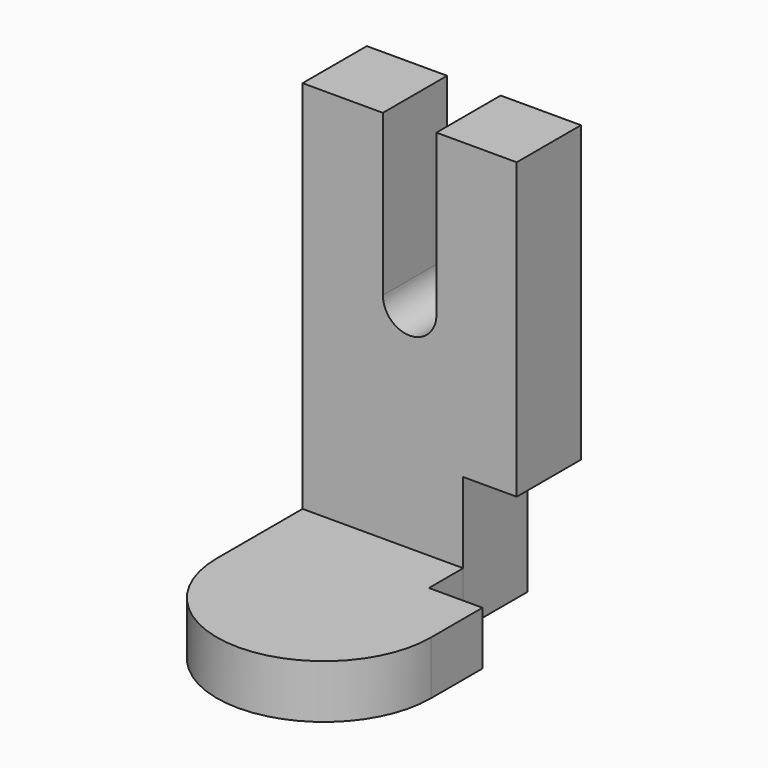
from build123d import *

# Parameters (mm, degrees)
F0_W     = 101.6
F0_H     = 203.2
F1_DEPTH = 38.1
F3_DEPTH = 25.4
F5_DEPTH = 1270
F6_W     = 20.32
F6_H     = 25.4
F7_DEPTH = 25.4


with BuildPart() as f1:
    # F0 (on Front) → F1 (new body)
    with BuildSketch(Plane.XZ):
        Rectangle(F0_W, F0_H)
    extrude(amount=-F1_DEPTH)

    # F4 (on face) → F5 (cut)
    with BuildSketch(Plane.XZ):
        with BuildLine():
            Line((12.7, 101.6), (-12.7, 101.6))
            Line((-12.7, 101.6), (-12.7, 25.4))
            ThreePointArc((-12.7, 25.4), (0, 12.7), (12.7, 25.4))
            Line((12.7, 25.4), (12.7, 101.6))
        make_face()
    extrude(amount=-F5_DEPTH, mode=Mode.SUBTRACT)


with BuildPart() as f3:
    # F2 (on face) → F3 (new body)
    with BuildSketch(Plane(origin=(0, 0, -101.6), x_dir=(1, 0, 0), z_dir=(0, 0, -1))):
        with BuildLine():
            Line((-50.8, 50.8), (-50.8, 0))
            Line((-50.8, 0), (50.8, 0))
            Line((50.8, 0), (50.8, 50.8))
            ThreePointArc((50.8, 50.8), (0, 101.6), (-50.8, 50.8))
        make_face()
    extrude(amount=-F3_DEPTH)


with BuildPart() as f7_tool:
    # F6 (on face) → F7 (new body)
    with BuildSketch(Plane.YZ.offset(50.8)):
        with Locations((-10.16, -88.9)):
            Rectangle(F6_W, F6_H)
        Polygon((0, -38.1), (0, -76.2), (0, -101.6), (38.1, -101.6), (38.1, -76.2), (38.1, -38.1), align=None)
    extrude(amount=-F7_DEPTH)


with BuildPart() as f1_1:
    add(f1.part)

    # F7: cut by f7_tool
    add(f7_tool.part, mode=Mode.SUBTRACT)


with BuildPart() as f3_1:
    add(f3.part)

    # F7: cut by f7_tool
    add(f7_tool.part, mode=Mode.SUBTRACT)


solid = Compound([f1_1.part, f3_1.part])
